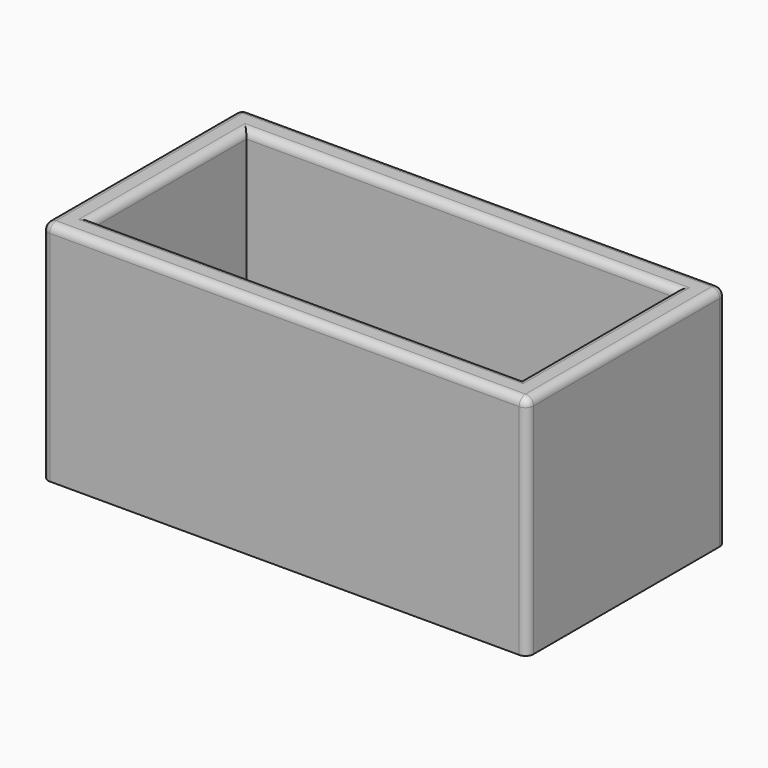
from build123d import *

# Parameters (mm, degrees)
F0_W     = 304.8
F0_H     = 142.2400027159
F1_DEPTH = 156.21
F2_T     = -17.78
F4_R     = 5


with BuildPart() as f1:
    # F0 (on Front) → F1 (new body)
    with BuildSketch(Plane.XZ):
        with Locations((-94.085527584, 5.834210664)):
            Rectangle(F0_W, F0_H)
    extrude(amount=F1_DEPTH)

    # F2
    f2_openings = [f1.faces().sort_by_distance(p)[0] for p in [
        (-94.085528, -78.105, 76.954212),
    ]]
    offset(amount=F2_T, openings=f2_openings)


with BuildPart() as f1_1:
    # F3: moved
    add(f1.part.moved(Location((0, 0, -77.978))))

    # F4
    f4_edges = [f1_1.edges().sort_by_distance(p)[0] for p in [
        (-94.085528, -156.21, -1.023788),
        (-246.485528, -78.105, -1.023788),
        (-94.085528, 0, -1.023788),
        (58.314472, -78.105, -1.023788),
        (40.534472, -78.105, -1.023788),
        (-94.085528, -138.43, -1.023788),
        (-94.085528, -17.78, -1.023788),
        (-228.705528, -78.105, -1.023788),
        (-246.485528, -156.21, -72.143789),
        (58.314472, -156.21, -72.143789),
        (-246.485528, 0, -72.143789),
        (58.314472, 0, -72.143789),
    ]]
    fillet(f4_edges, radius=F4_R)


solid = f1_1.part
